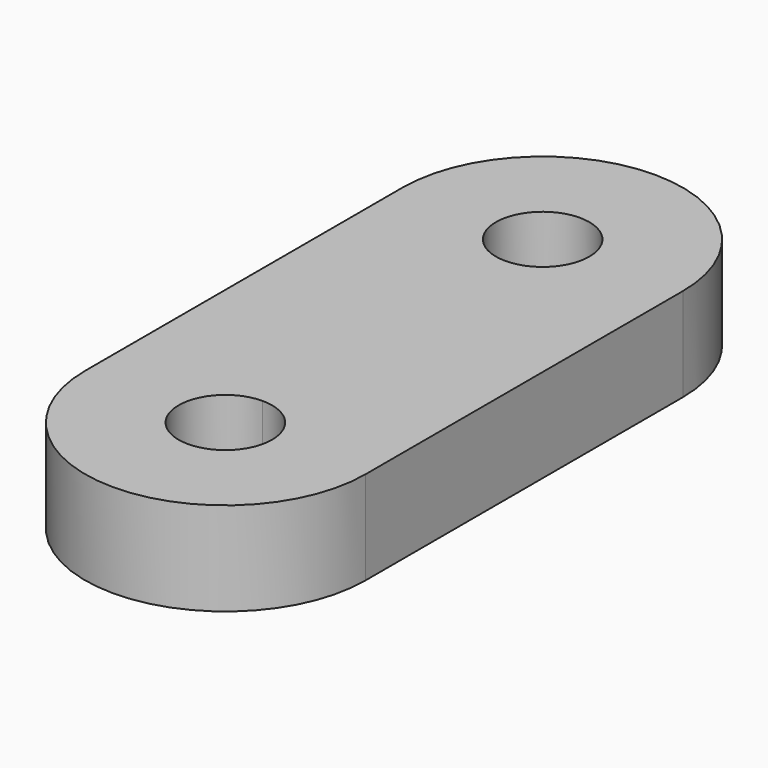
from build123d import *

# Parameters (mm, degrees)
F1_DEPTH = 6.35


with BuildPart() as f1:
    # F0 (on Top) → F1 (new body)
    with BuildSketch(Plane.XY):
        with BuildLine():
            ThreePointArc((9.525, 0), (6.7351920908, 6.7351920908), (0, 9.525))
            ThreePointArc((0, 9.525), (-6.7351920908, 6.7351920908), (-9.525, 0))
            ThreePointArc((-9.525, 0), (0, -9.525), (9.525, 0))
        make_face()
        with BuildLine():
            ThreePointArc((3.175, 0), (-2.2450640303, -2.2450640303), (0, 3.175))
            ThreePointArc((0, 3.175), (2.2450640303, 2.2450640303), (3.175, 0))
        make_face(mode=Mode.SUBTRACT)
        with BuildLine():
            ThreePointArc((-9.525, 0), (-6.7351920908, 6.7351920908), (0, 9.525))
            Line((0, 9.525), (0, 17.430102046))
            ThreePointArc((0, 17.430102046), (-6.7351920908, 20.2199099552), (-9.525, 26.955102046))
            Line((-9.525, 26.955102046), (-9.525, 0))
        make_face()
        with BuildLine():
            Line((0, 17.430102046), (0, 9.525))
            ThreePointArc((0, 9.525), (6.7351920908, 6.7351920908), (9.525, 0))
            Line((9.525, 0), (9.525, 26.955102046))
            ThreePointArc((9.525, 26.955102046), (6.7351920908, 20.2199099552), (0, 17.430102046))
        make_face()
        with BuildLine():
            ThreePointArc((-9.525, 26.955102046), (-6.7351920908, 20.2199099552), (0, 17.430102046))
            Line((0, 17.430102046), (0, 23.780102046))
            ThreePointArc((0, 23.780102046), (-2.2450640303, 29.2001660763), (3.175, 26.955102046))
            Line((3.175, 26.955102046), (9.525, 26.955102046))
            ThreePointArc((9.525, 26.955102046), (0, 36.480102046), (-9.525, 26.955102046))
        make_face()
        with BuildLine():
            Line((0, 23.780102046), (0, 17.430102046))
            ThreePointArc((0, 17.430102046), (6.7351920908, 20.2199099552), (9.525, 26.955102046))
            Line((9.525, 26.955102046), (3.175, 26.955102046))
            ThreePointArc((3.175, 26.955102046), (2.2450640303, 24.7100380157), (0, 23.780102046))
        make_face()
    extrude(amount=F1_DEPTH)


solid = f1.part
